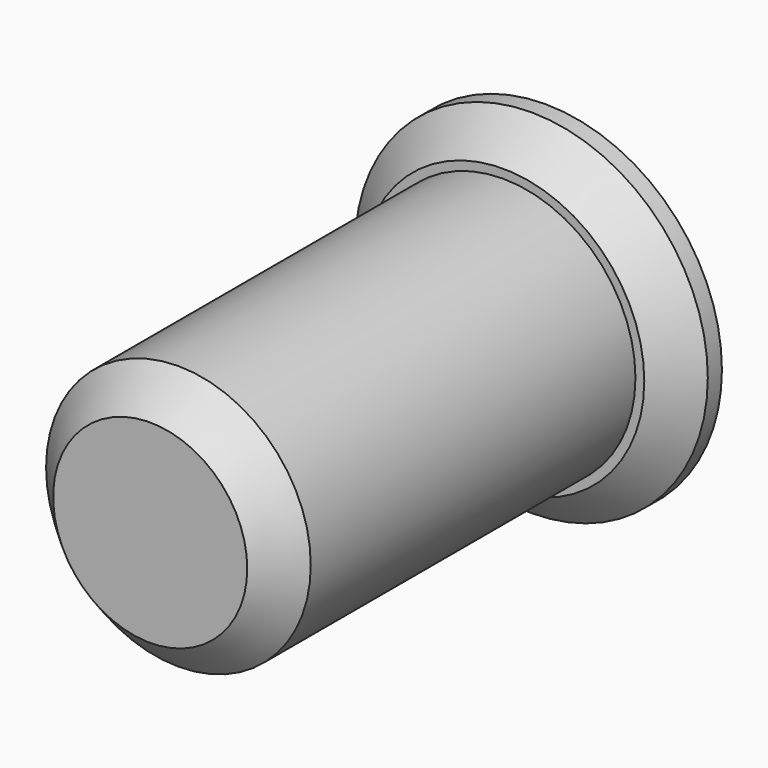
from build123d import *

# Parameters (mm, degrees)
F0_R     = 7.5
F1_DEPTH = 25
F2_SIZE  = 2
F3_R     = 10
F3_R_2   = 7.5
F4_DEPTH = 3
F5_SIZE  = 2


with BuildPart() as f1:
    # F0 (on Front) → F1 (new body)
    with BuildSketch(Plane.XZ):
        Circle(F0_R)
    extrude(amount=F1_DEPTH)

    # F2
    f2_edges = [f1.edges().sort_by_distance(p)[0] for p in [
        (-7.5, -25, 0),
    ]]
    chamfer(f2_edges, length=F2_SIZE)


with BuildPart() as f4:
    # F3 (on face) → F4 (new body)
    with BuildSketch(Plane(origin=(0, 0, 0), x_dir=(-1, 0, 0), z_dir=(0, 1, 0))):
        Circle(F3_R)
        Circle(F3_R_2, mode=Mode.SUBTRACT)
    extrude(amount=F4_DEPTH)

    # F5
    f5_edges = [f4.edges().sort_by_distance(p)[0] for p in [
        (10, 0, 0),
    ]]
    chamfer(f5_edges, length=F5_SIZE)


solid = Compound([f1.part, f4.part])
